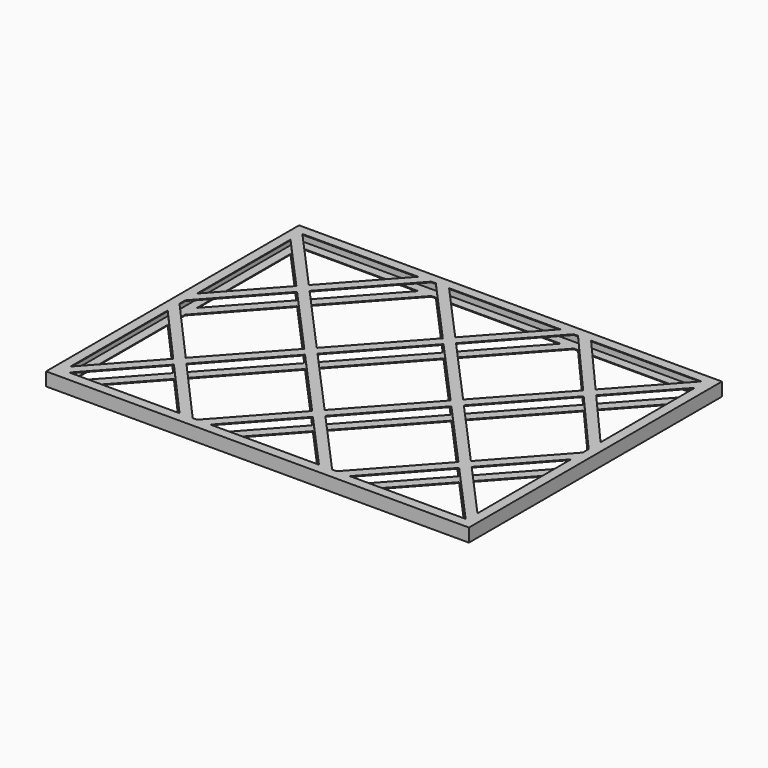
from build123d import *

# Parameters (mm, degrees)
SKETCH_W            = 603
SKETCH_H            = 451
SKETCH_W_2          = 601
SKETCH_H_2          = 449
PAD_DEPTH           = 17
SKETCH001_W         = 603
SKETCH001_H         = 451
PAD001_DEPTH        = 1
LINEARPATTERN_COUNT = 2
LINEARPATTERN_PITCH = 18


with BuildPart() as part:
    # Sketch → Pad (new body)
    with BuildSketch(Plane.XY):
        with Locations((301.5, 225.5)):
            Rectangle(SKETCH_W, SKETCH_H)
        with Locations((301.5, 225.5)):
            Rectangle(SKETCH_W_2, SKETCH_H_2, mode=Mode.SUBTRACT)
    extrude(amount=PAD_DEPTH)

    # Sketch001 (on Face10 of Pad) → Pad001 (join)
    with BuildSketch(Plane.XY.offset(17)):
        with Locations((301.5, 225.5)):
            Rectangle(SKETCH001_W, SKETCH001_H)
        Polygon((22.025087, 14), (179.143913, 14), (100.981365, 101.689824), align=None, mode=Mode.SUBTRACT)
        Polygon((589, 32.810618), (589, 199.49019), (513.960487, 116.150433), align=None, mode=Mode.SUBTRACT)
        Polygon((585.05717, 437), (427.601062, 437), (505.123787, 348.224991), align=None, mode=Mode.SUBTRACT)
        Polygon((14, 418.188846), (14, 251.509909), (89.039227, 334.849407), align=None, mode=Mode.SUBTRACT)
        Polygon((15.901213, 437), (98.458656, 345.310742), (181.016042, 437), align=None, mode=Mode.SUBTRACT)
        Polygon((225.066216, 437), (304.561693, 348.711335), (384.05717, 437), align=None, mode=Mode.SUBTRACT)
        Polygon((199.854901, 437), (107.878089, 334.84941), (199.979256, 232.560781), (295.142264, 338.25), (206.227357, 437), align=None, mode=Mode.SUBTRACT)
        Polygon((409.014436, 437), (495.688193, 337.745703), (405.061693, 237.094787), (313.981123, 338.25), (402.896029, 437), align=None, mode=Mode.SUBTRACT)
        Polygon((589, 220.412852), (504.541058, 126.611768), (414.481123, 226.633451), (504.96341, 327.124204), (589, 230.889854), align=None, mode=Mode.SUBTRACT)
        Polygon((421.983753, 14), (504.541055, 105.689101), (587.098299, 14), align=None, mode=Mode.SUBTRACT)
        Polygon((223.025087, 14), (300.479294, 100.021605), (377.933555, 14), align=None, mode=Mode.SUBTRACT)
        Polygon((197.898215, 14), (204.186228, 14), (291.059861, 110.482936), (199.979259, 211.638114), (110.405888, 112.156815), align=None, mode=Mode.SUBTRACT)
        Polygon((396.77242, 14), (403.144888, 14), (495.121626, 116.150436), (405.061693, 216.172116), (309.898723, 110.48294), align=None, mode=Mode.SUBTRACT)
        Polygon((14, 220.313669), (101.034043, 122.670999), (190.559826, 222.099446), (98.458659, 324.388075), (14, 230.587239), align=None, mode=Mode.SUBTRACT)
        Polygon((14, 199.273395), (91.609521, 112.204007), (14, 26.009909), align=None, mode=Mode.SUBTRACT)
        Polygon((304.561693, 327.788665), (395.642264, 226.633451), (300.479291, 120.944271), (209.398688, 222.099449), align=None, mode=Mode.SUBTRACT)
        Polygon((514.399004, 337.603492), (589, 252.174295), (589, 420.456285), align=None, mode=Mode.SUBTRACT)
    pad001 = extrude(amount=PAD001_DEPTH)

    # LinearPattern: Pad001 ×2
    with Locations(*[(0, 0, -i * LINEARPATTERN_PITCH) for i in range(1, LINEARPATTERN_COUNT)]):
        add(pad001)


solid = part.part
